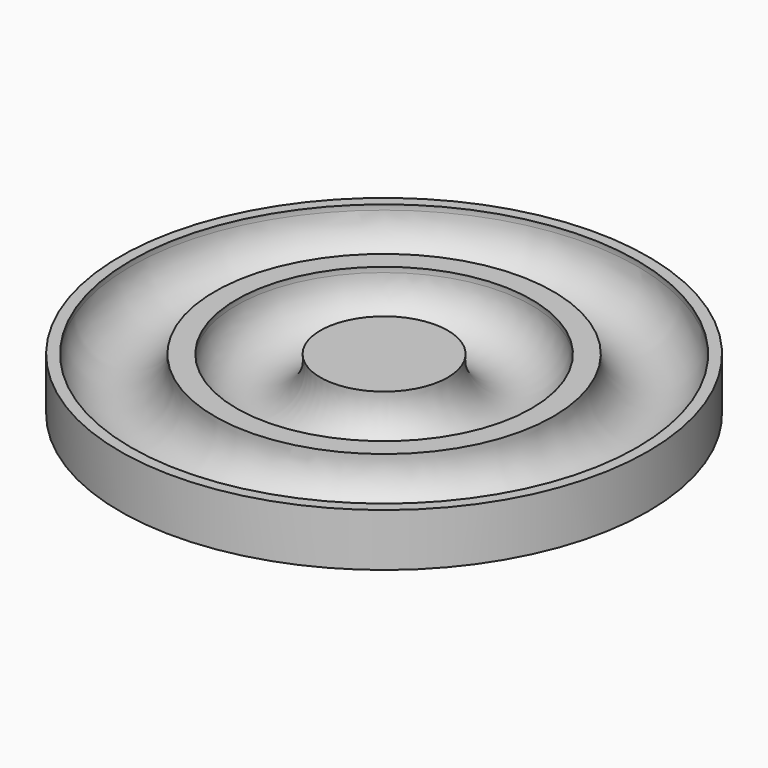
from build123d import *

# Parameters (mm, degrees)
TORUS_R        = 8
TORUS001_R     = 8
CYLINDER_R     = 50
CYLINDER_DEPTH = 10


with BuildPart() as obj1:
    # Torus → Torus (revolve)
    with BuildSketch(Plane(origin=(0, 0, 9), x_dir=(1, 0, 0), z_dir=(0, -1, 0))):
        with Locations((20, 0)):
            Circle(TORUS_R)
    revolve(axis=Axis((0, 0, 9), (0, 0, 1)))


with BuildPart() as obj2:
    # Torus001 → Torus001 (revolve)
    with BuildSketch(Plane(origin=(0, 0, 9), x_dir=(1, 0, 0), z_dir=(0, -1, 0))):
        with Locations((40, 0)):
            Circle(TORUS001_R)
    revolve(axis=Axis((0, 0, 9), (0, 0, 1)))

    # Fusion: union obj1
    add(obj1.part)


with BuildPart() as obj3:
    # Cylinder → Cylinder (new body)
    with BuildSketch(Plane.XY):
        Circle(CYLINDER_R)
    extrude(amount=CYLINDER_DEPTH)

    # Cut: cut obj2
    add(obj2.part, mode=Mode.SUBTRACT)


solid = obj3.part
